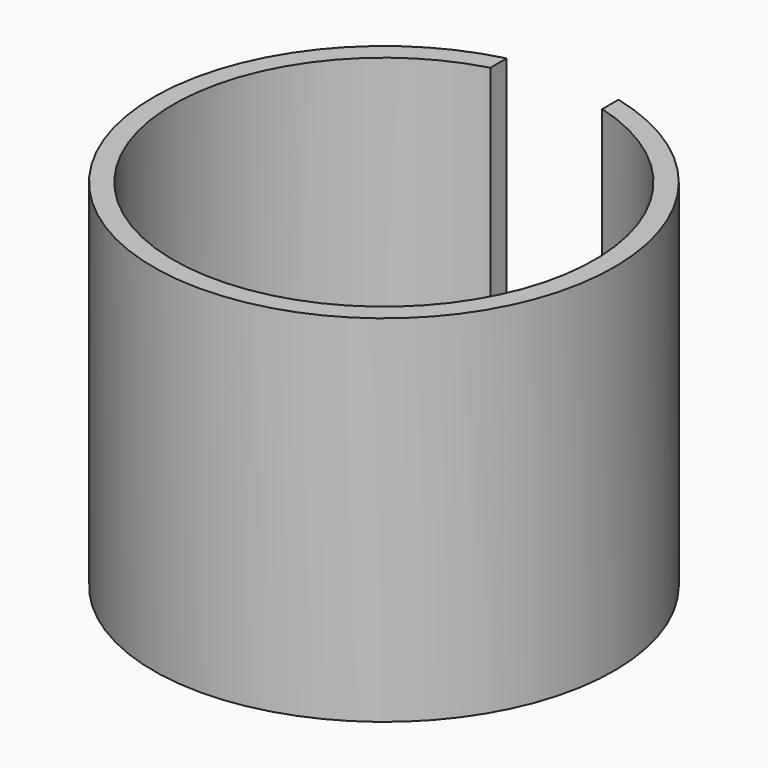
from build123d import *

# Parameters (mm, degrees)
F0_R     = 17.5
F0_R_2   = 7.25
F1_DEPTH = 2
F2_R     = 8.75
F2_R_2   = 7.25
F3_DEPTH = 5
F2_R_3   = 17.5
F2_R_4   = 16
F4_DEPTH = 25
F5_W     = 8.5
F5_H     = 17.5
F6_DEPTH = 27.001


with BuildPart() as f1:
    # F0 (on Top) → F1 (new body)
    with BuildSketch(Plane.XY):
        Circle(F0_R)
        Circle(F0_R_2, mode=Mode.SUBTRACT)
    extrude(amount=F1_DEPTH)

    # F2 (on face) → F3 (join)
    with BuildSketch(Plane.XY.offset(2)):
        Circle(F2_R)
        Circle(F2_R_2, mode=Mode.SUBTRACT)
    extrude(amount=F3_DEPTH)

    # F2 (on face) → F4 (join)
    with BuildSketch(Plane.XY.offset(2)):
        Circle(F2_R_3)
        Circle(F2_R_4, mode=Mode.SUBTRACT)
    extrude(amount=F4_DEPTH)

    # F5 (on Top) → F6 (cut, through all)
    with BuildSketch(Plane.XY):
        with Locations((0, 8.75)):
            Rectangle(F5_W, F5_H)
    extrude(amount=F6_DEPTH, mode=Mode.SUBTRACT)


solid = f1.part
